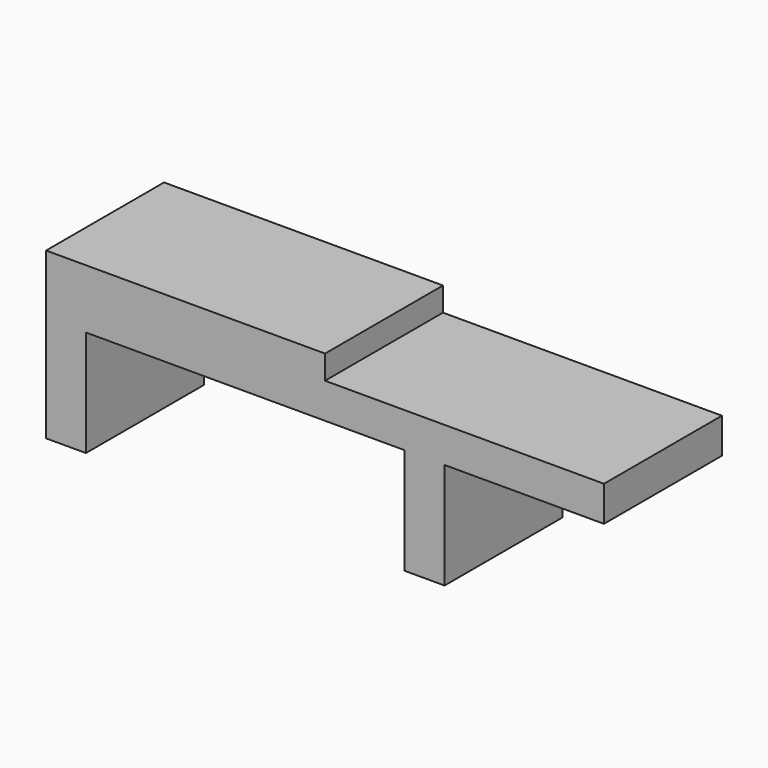
from build123d import *

# Parameters (mm, degrees)
F0_W     = 70
F0_H     = 37
F1_DEPTH = 41.5
F2_DEPTH = 35.5
F3_W     = 80
F3_H     = 26.6440417618
F3_W_2   = 40
F4_DEPTH = 40


with BuildPart() as f1:
    # F0 (on Top) → F1 (new body)
    with BuildSketch(Plane.XY):
        with Locations((-35, 0)):
            Rectangle(F0_W, F0_H)
    extrude(amount=F1_DEPTH)

    # F0 (on Top) → F2 (join)
    with BuildSketch(Plane.XY):
        with Locations((35, 0)):
            Rectangle(F0_W, F0_H)
        with Locations((-35, 0)):
            Rectangle(F0_W, F0_H)
    extrude(amount=F2_DEPTH)

    # F3 (on face) → F4 (cut)
    with BuildSketch(Plane(origin=(0, 18.5, 0), x_dir=(-1, 0, 0), z_dir=(0, 1, 0))):
        with Locations((20, 13.3220208809)):
            Rectangle(F3_W, F3_H)
        with Locations((-50, 13.3220208809)):
            Rectangle(F3_W_2, F3_H)
    extrude(amount=-F4_DEPTH, mode=Mode.SUBTRACT)


solid = f1.part
